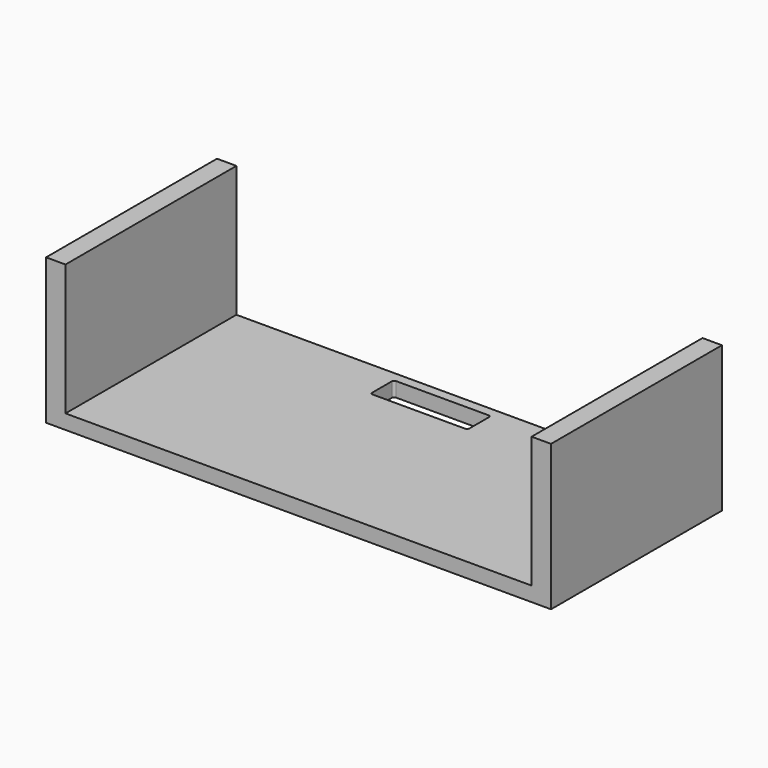
from build123d import *

# Parameters (mm, degrees)
F0_W     = 1320.8
F0_H     = 558.8
F1_DEPTH = 38.1
F2_W     = 254
F2_H     = 76.2
F3_DEPTH = 333.248
F4_R     = 6.35
F5_DEPTH = 342.9


with BuildPart() as f1:
    # F0 (on Top) → F1 (new body)
    with BuildSketch(Plane.XY):
        with Locations((0.0168122351, -382.5642513233)):
            Rectangle(F0_W, F0_H)
    extrude(amount=F1_DEPTH)

    # F2 (on face) → F3 (cut, symmetric)
    with BuildSketch(Plane.XY.offset(38.1)):
        with Locations((-50.7831877649, -166.6642513233)):
            Rectangle(F2_W, F2_H)
    extrude(amount=F3_DEPTH, both=True, mode=Mode.SUBTRACT)

    # F4
    f4_edges = [f1.edges().sort_by_distance(p)[0] for p in [
        (-177.783188, -128.564251, 19.05),
        (-177.783188, -204.764251, 19.05),
        (76.216812, -128.564251, 19.05),
        (76.216812, -204.764251, 19.05),
    ]]
    fillet(f4_edges, radius=F4_R)

    # F2 (on face) → F5 (join)
    with BuildSketch(Plane.XY.offset(38.1)):
        Polygon((-609.5831877649, -103.1642513233), (-660.3831877649, -103.1642513233), (-660.3831877649, -661.9642513233), (-609.5831877649, -661.9642513233), (-609.5831877649, -319.0642513233), (-609.5831877649, -300.0142513233), align=None)
        Polygon((660.4168122351, -103.1642513233), (609.6168122351, -103.1642513233), (609.6168122351, -300.0142513233), (609.6168122351, -319.0642513233), (609.6168122351, -661.9642513233), (660.4168122351, -661.9642513233), align=None)
    extrude(amount=F5_DEPTH)


solid = f1.part
